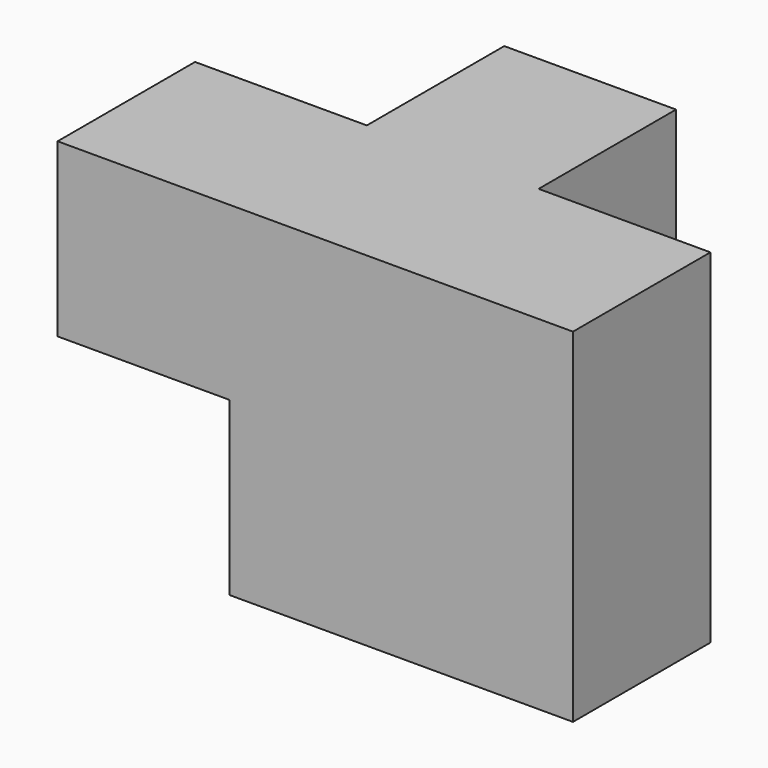
from build123d import *

# Parameters (mm, degrees)
F0_W     = 25.4
F0_H     = 25.4
F1_DEPTH = 25.4
F2_W     = 25.4
F2_H     = 25.4
F3_DEPTH = 25.4


with BuildPart() as f1:
    # F0 (on Front) → F1 (new body)
    with BuildSketch(Plane.XZ):
        with Locations((12.7, 12.7)):
            Rectangle(F0_W, F0_H)
        with Locations((-12.7, 12.7)):
            Rectangle(F0_W, F0_H)
        with Locations((12.7, -12.7)):
            Rectangle(F0_W, F0_H)
        with Locations((38.1, 12.7)):
            Rectangle(F0_W, F0_H)
        with Locations((38.1, -12.7)):
            Rectangle(F0_W, F0_H)
    extrude(amount=F1_DEPTH)

    # F2 (on Top) → F3 (join)
    with BuildSketch(Plane.XY):
        with Locations((12.7, 12.7)):
            Rectangle(F2_W, F2_H)
    extrude(amount=F3_DEPTH)


solid = f1.part
